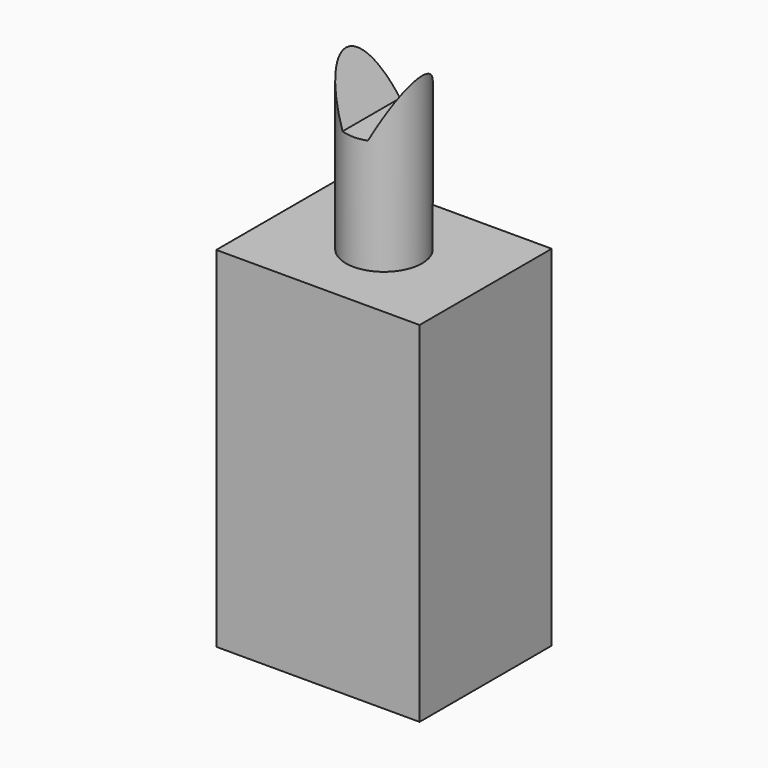
from build123d import *

# Parameters (mm, degrees)
F0_W     = 32
F0_H     = 26
F1_DEPTH = 55
F2_R     = 6
F3_DEPTH = 26
F5_DEPTH = 25


with BuildPart() as f1:
    # F0 (on Top) → F1 (new body)
    with BuildSketch(Plane.XY):
        with Locations((16, 13)):
            Rectangle(F0_W, F0_H)
    extrude(amount=F1_DEPTH)

    # F2 (on face) → F3 (join)
    with BuildSketch(Plane.XY.offset(55)):
        with Locations((16, 13)):
            Circle(F2_R)
    extrude(amount=F3_DEPTH)

    # F4 (on face) → F5 (cut)
    with BuildSketch(Plane.XZ):
        Polygon((22, 81), (10, 81), (14, 73), (18, 73), align=None)
    extrude(amount=-F5_DEPTH, mode=Mode.SUBTRACT)


solid = f1.part
